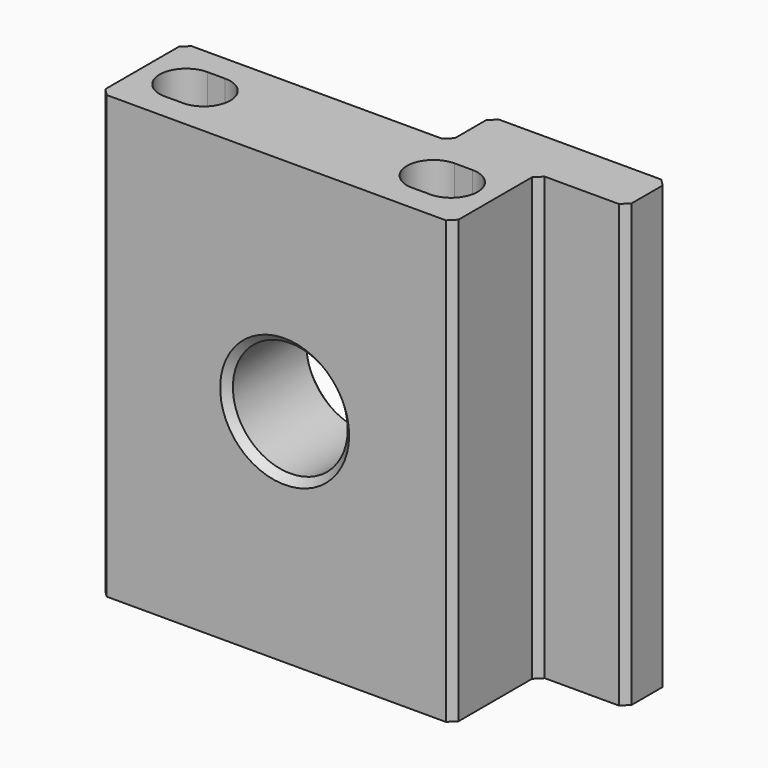
from build123d import *

# Parameters (mm, degrees)
F1_DEPTH = 50
F3_DEPTH = 55
F4_R     = 6.5
F5_DEPTH = 13
F6_SIZE  = 0.8


with BuildPart() as f1:
    # F0 (on Top) → F1 (new body)
    with BuildSketch(Plane.XY):
        Polygon((-32.258, 12), (-32.258, 0), (7.742, 0), (7.742, 12), (17.742, 12), (17.742, 18), (-2.258, 18), (-2.258, 12), align=None)
    extrude(amount=F1_DEPTH)

    # F2 (on face) → F3 (cut)
    with BuildSketch(Plane.XY.offset(50)):
        with BuildLine():
            Line((-25.258, 9), (-27.258, 9))
            ThreePointArc((-27.258, 9), (-30.258, 6), (-27.258, 3))
            Line((-27.258, 3), (-25.596914, 3.019205))
            ThreePointArc((-25.596914, 3.019205), (-22.262805, 5.830271), (-25.258, 9))
        make_face()
        with BuildLine():
            Line((0.742, 3), (2.403086, 3.019205))
            ThreePointArc((2.403086, 3.019205), (5.737195, 5.830271), (2.742, 9))
            Line((2.742, 9), (0.742, 9))
            ThreePointArc((0.742, 9), (-2.258, 6), (0.742, 3))
        make_face()
    extrude(amount=-F3_DEPTH, mode=Mode.SUBTRACT)

    # F4 (on face) → F5 (cut)
    with BuildSketch(Plane.XZ):
        with Locations((-11.308, 25)):
            Circle(F4_R)
    extrude(amount=-F5_DEPTH, mode=Mode.SUBTRACT)

    # F6
    f6_edges = [f1.edges().sort_by_distance(p)[0] for p in [
        (7.742, 0, 25),
        (7.742, 12, 25),
        (17.742, 12, 25),
        (17.742, 18, 25),
        (-32.258, 12, 25),
        (-32.258, 0, 25),
        (-2.258, 12, 25),
        (-2.258, 18, 25),
        (-17.808, 12, 25),
        (-17.808, 0, 25),
    ]]
    chamfer(f6_edges, length=F6_SIZE)


solid = f1.part
